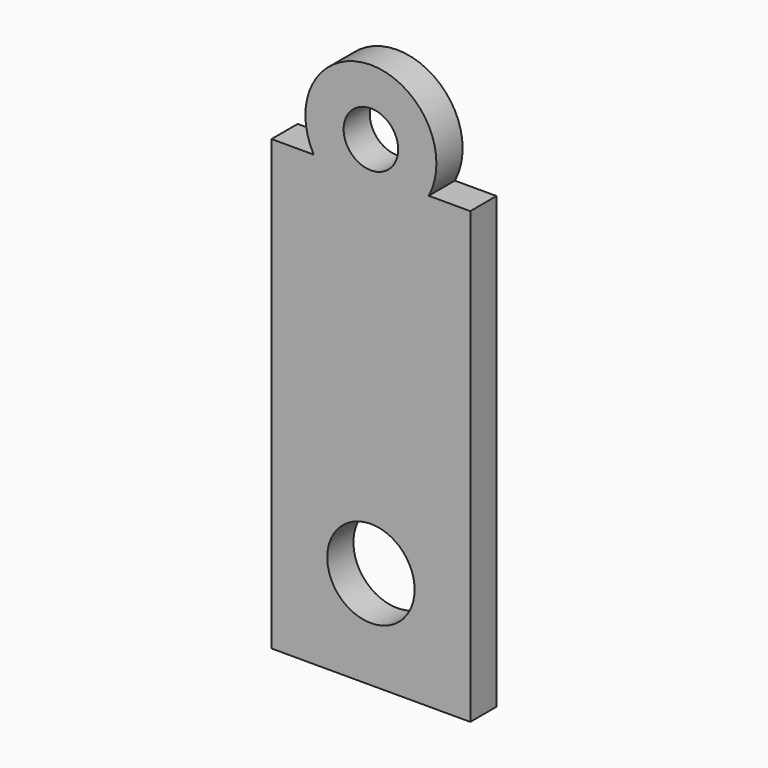
from build123d import *

# Parameters (mm, degrees)
F0_R     = 4
F0_R_2   = 2.5
F1_DEPTH = 3


with BuildPart() as f1:
    # F0 (on Front) → F1 (new body)
    with BuildSketch(Plane.XZ):
        with BuildLine():
            Line((-9.100001, 15.464295), (-9.100001, 12.027153))
            Line((-9.100001, 12.027153), (-9.100001, -25.604364))
            Line((-9.100001, -25.604364), (9.100599, -25.604364))
            Line((9.100599, -25.604364), (9.100599, 15.571573))
            Line((9.100599, 15.571573), (5.291503, 15.571573))
            ThreePointArc((5.291503, 15.571573), (-0.061157, 24.399688), (-5.232746, 15.464295))
            Line((-5.232746, 15.464295), (-9.100001, 15.464295))
        make_face()
        with Locations((0, -16.6)):
            Circle(F0_R, mode=Mode.SUBTRACT)
        with Locations((0, 18.4)):
            Circle(F0_R_2, mode=Mode.SUBTRACT)
    extrude(amount=F1_DEPTH)


solid = f1.part
